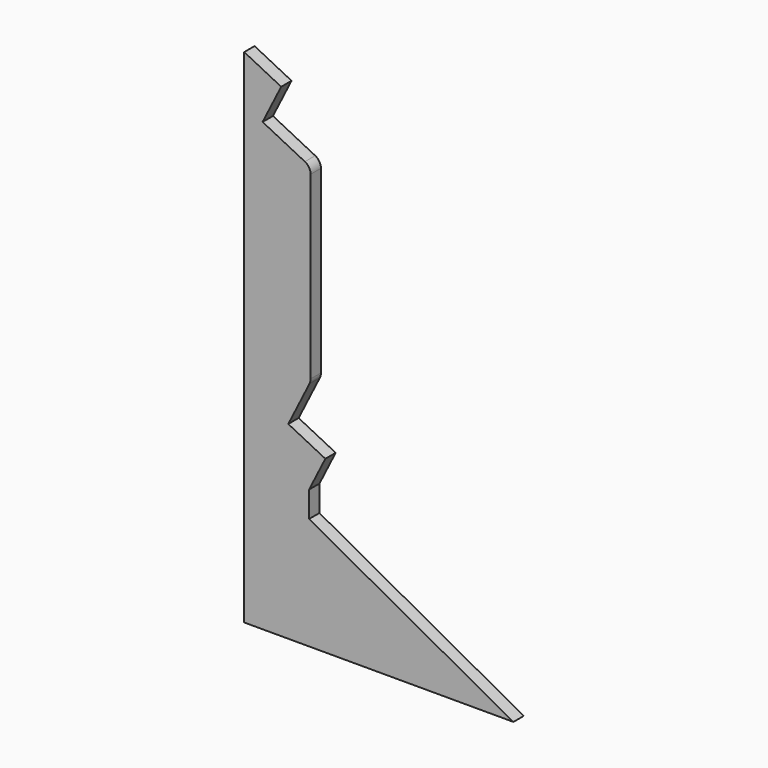
from build123d import *

# Parameters (mm, degrees)
F1_DEPTH = 25


with BuildPart() as f1:
    # F0 (on Front) → F1 (new body)
    with BuildSketch(Plane.XZ):
        with BuildLine():
            Line((-176.581672, -536.89809), (343.029928, -536.89809))
            Line((343.029928, -536.89809), (-51.404977, -320.285288))
            Line((-51.404977, -320.285288), (-51.404977, -270.285288))
            Line((-51.404977, -270.285288), (-20.039994, -207.705436))
            Line((-20.039994, -207.705436), (-91.559825, -171.859742))
            Line((-91.559825, -171.859742), (-50.631851, -90.199675))
            ThreePointArc((-50.631851, -90.199675), (-49.049035, -85.842643), (-48.511809, -81.238252))
            Line((-48.511809, -81.238252), (-48.511809, 266.52077))
            ThreePointArc((-48.511809, 266.52077), (-51.492836, 277.025748), (-59.547265, 284.399163))
            Line((-59.547265, 284.399163), (-141.139694, 325.311057))
            Line((-141.139694, 325.311057), (-105.281518, 396.824631))
            Line((-105.281518, 396.824631), (-176.581672, 432.575794))
            Line((-176.581672, 432.575794), (-176.581672, -536.89809))
        make_face()
    extrude(amount=F1_DEPTH)


solid = f1.part
